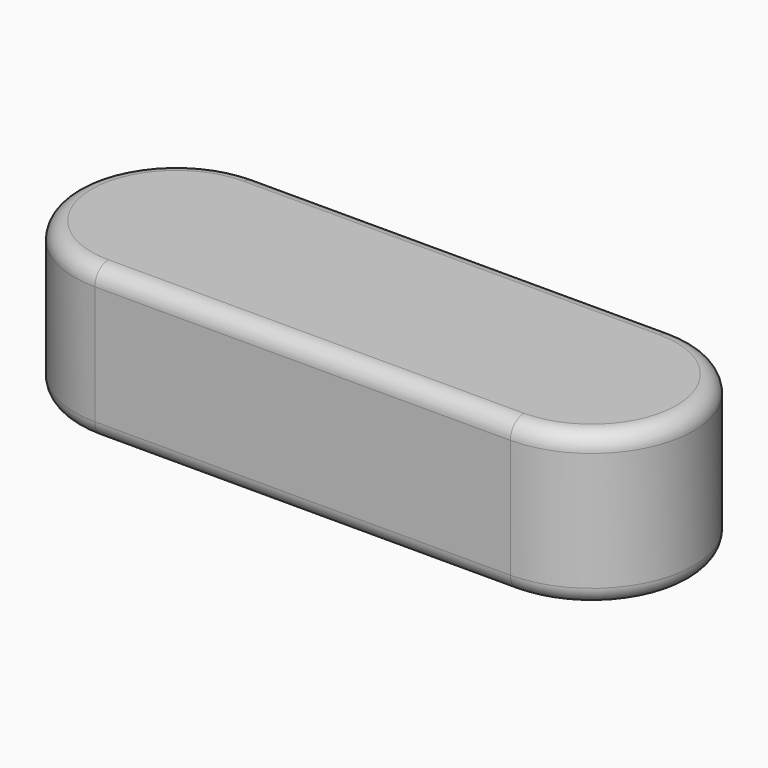
from build123d import *

# Parameters (mm, degrees)
F1_DEPTH = 9
F2_R     = 1


with BuildPart() as f1:
    # F0 (on Top) → F1 (new body)
    with BuildSketch(Plane.XY):
        with BuildLine():
            Line((-12.25, -6), (12.25, -6))
            ThreePointArc((12.25, -6), (18.25, 0), (12.25, 6))
            Line((12.25, 6), (-12.25, 6))
            ThreePointArc((-12.25, 6), (-18.25, 0), (-12.25, -6))
        make_face()
    extrude(amount=F1_DEPTH)

    # F2
    f2_edges = [f1.edges().sort_by_distance(p)[0] for p in [
        (0, 6, 0),
        (0, 6, 9),
    ]]
    fillet(f2_edges, radius=F2_R)


solid = f1.part
